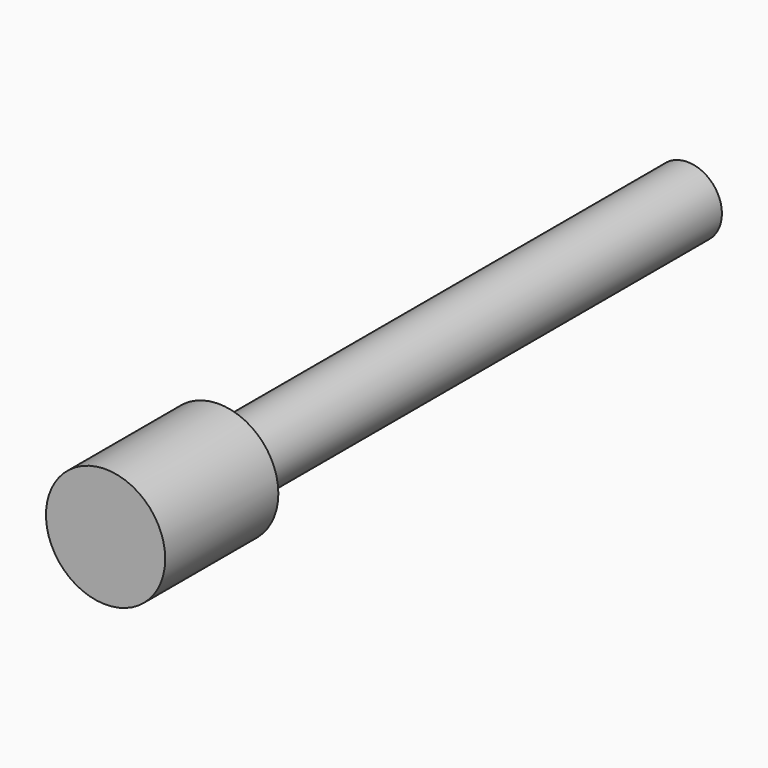
from build123d import *

# Parameters (mm, degrees)
CYLINDER_R          = 2.95
CYLINDER_DEPTH      = 7
CYLINDER001_R       = 1.7
CYLINDER001_DEPTH   = 30
CLONE054_ROLL_ANGLE = -90


with BuildPart() as m3bolthead:
    # Cylinder → Cylinder (new body)
    with BuildSketch(Plane.XY):
        Circle(CYLINDER_R)
    extrude(amount=CYLINDER_DEPTH)


with BuildPart() as clone_of_m3bolt017:
    # Cylinder001 → Cylinder001 (new body)
    with BuildSketch(Plane.XY.offset(6)):
        Circle(CYLINDER001_R)
    extrude(amount=CYLINDER001_DEPTH)

    # Fusion: union M3BoltHead
    add(m3bolthead.part)


with BuildPart() as clone_of_m3bolt017_1:
    # Clone054 roll: moved
    add(clone_of_m3bolt017.part.rotate(Axis((0, 0, 0), (1, 0, 0)), CLONE054_ROLL_ANGLE))


with BuildPart() as clone_of_m3bolt017_2:
    # Clone054 placement: moved
    add(clone_of_m3bolt017_1.part.moved(Location((-31.5, -70, 8))))


solid = clone_of_m3bolt017_2.part
